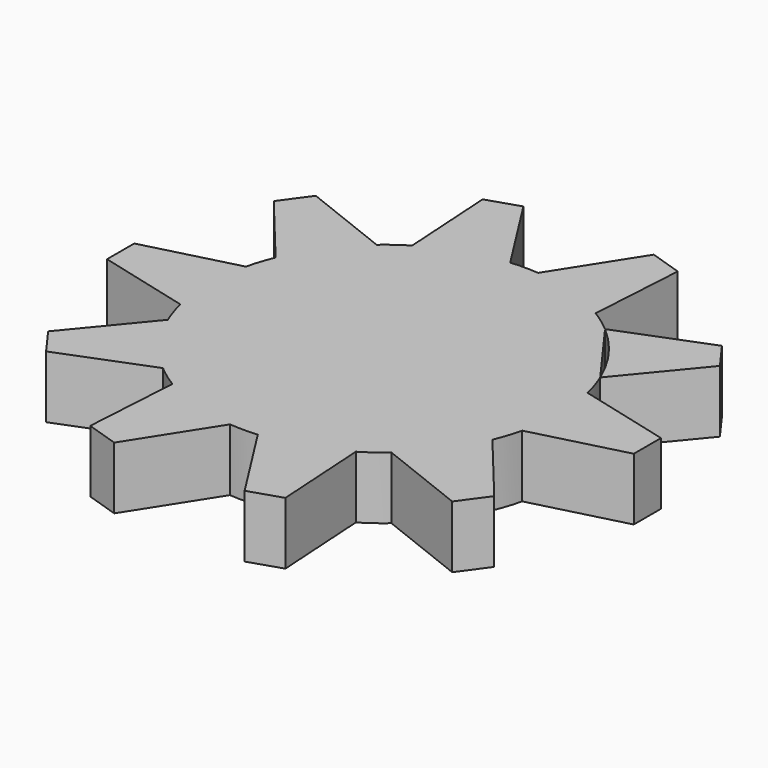
from build123d import *

# Parameters (mm, degrees)
F1_DEPTH = 4


with BuildPart() as f1:
    # F0 (on Top) → F1 (new body)
    with BuildSketch(Plane.XY):
        with BuildLine():
            Line((14.321063915, -9.0548285355), (10.419284589, -4.3253749244))
            ThreePointArc((10.419284589, -4.3253749244), (9.126857717, -6.6310502785), (7.3334120145, -8.5727141448))
            Line((7.3334120145, -8.5727141448), (13.0371058099, -10.822045258))
            Line((13.0371058099, -10.822045258), (14.321063915, -9.0548285355))
        make_face()
        with BuildLine():
            ThreePointArc((10.9717698929, -2.625), (11.2037374598, -1.3215999828), (11.2814165592, 0))
            ThreePointArc((11.2814165592, 0), (11.2037374598, 1.3215999828), (10.9717698929, 2.625))
            ThreePointArc((10.9717698929, 2.625), (10.7292647317, 3.4861494374), (10.419284589, 4.3253749244))
            Line((10.419284589, 4.3253749244), (7.3334120145, 8.5727141448))
            ThreePointArc((7.3334120145, 8.5727141448), (6.6310502785, 9.126857717), (5.8869867105, 9.6236036417))
            ThreePointArc((5.8869867105, 9.6236036417), (3.4861494374, 10.7292647317), (0.89394, 11.2459428622))
            ThreePointArc((0.89394, 11.2459428622), (0, 11.2814165592), (-0.89394, 11.2459428622))
            ThreePointArc((-0.89394, 11.2459428622), (-3.4861494374, 10.7292647317), (-5.8869867105, 9.6236036417))
            ThreePointArc((-5.8869867105, 9.6236036417), (-6.6310502785, 9.126857717), (-7.3334120145, 8.5727141448))
            ThreePointArc((-7.3334120145, 8.5727141448), (-9.126857717, 6.6310502785), (-10.419284589, 4.3253749244))
            ThreePointArc((-10.419284589, 4.3253749244), (-10.7292647317, 3.4861494374), (-10.9717698929, 2.625))
            ThreePointArc((-10.9717698929, 2.625), (-11.2814165592, 0), (-10.9717698929, -2.625))
            ThreePointArc((-10.9717698929, -2.625), (-10.7292647317, -3.4861494374), (-10.419284589, -4.3253749244))
            ThreePointArc((-10.419284589, -4.3253749244), (-9.126857717, -6.6310502785), (-7.3334120145, -8.5727141448))
            ThreePointArc((-7.3334120145, -8.5727141448), (-6.6310502785, -9.126857717), (-5.8869867105, -9.6236036417))
            ThreePointArc((-5.8869867105, -9.6236036417), (-3.4861494374, -10.7292647317), (-0.89394, -11.2459428622))
            ThreePointArc((-0.89394, -11.2459428622), (0, -11.2814165592), (0.89394, -11.2459428622))
            ThreePointArc((0.89394, -11.2459428622), (3.4861494374, -10.7292647317), (5.8869867105, -9.6236036417))
            ThreePointArc((5.8869867105, -9.6236036417), (6.6310502785, -9.126857717), (7.3334120145, -8.5727141448))
            ThreePointArc((7.3334120145, -8.5727141448), (9.126857717, -6.6310502785), (10.419284589, -4.3253749244))
            ThreePointArc((10.419284589, -4.3253749244), (10.7292647317, -3.4861494374), (10.9717698929, -2.625))
        make_face()
        with BuildLine():
            ThreePointArc((10.9717698929, 2.625), (11.2037374598, 1.3215999828), (11.2814165592, 0))
            ThreePointArc((11.2814165592, 0), (11.2037374598, -1.3215999828), (10.9717698929, -2.625))
            Line((10.9717698929, -2.625), (16.9082787599, -1.0922))
            Line((16.9082787599, -1.0922), (16.9082787599, 1.0922))
            Line((16.9082787599, 1.0922), (10.9717698929, 2.625))
        make_face()
        with BuildLine():
            ThreePointArc((0.89394, 11.2459428622), (3.4861494374, 10.7292647317), (5.8869867105, 9.6236036417))
            Line((5.8869867105, 9.6236036417), (6.2636894095, 15.7432203327))
            Line((6.2636894095, 15.7432203327), (4.1862015554, 16.4182370552))
            Line((4.1862015554, 16.4182370552), (0.89394, 11.2459428622))
        make_face()
        with BuildLine():
            ThreePointArc((-5.8869867105, 9.6236036417), (-3.4861494374, 10.7292647317), (-0.89394, 11.2459428622))
            Line((-0.89394, 11.2459428622), (-4.1862015554, 16.4182370552))
            Line((-4.1862015554, 16.4182370552), (-6.2636894095, 15.7432203327))
            Line((-6.2636894095, 15.7432203327), (-5.8869867105, 9.6236036417))
        make_face()
        with BuildLine():
            Line((6.2636894095, -15.7432203327), (5.8869867105, -9.6236036417))
            ThreePointArc((5.8869867105, -9.6236036417), (3.4861494374, -10.7292647317), (0.89394, -11.2459428622))
            Line((0.89394, -11.2459428622), (4.1862015554, -16.4182370552))
            Line((4.1862015554, -16.4182370552), (6.2636894095, -15.7432203327))
        make_face()
        with BuildLine():
            Line((-4.1862015554, -16.4182370552), (-0.89394, -11.2459428622))
            ThreePointArc((-0.89394, -11.2459428622), (-3.4861494374, -10.7292647317), (-5.8869867105, -9.6236036417))
            Line((-5.8869867105, -9.6236036417), (-6.2636894095, -15.7432203327))
            Line((-6.2636894095, -15.7432203327), (-4.1862015554, -16.4182370552))
        make_face()
        with BuildLine():
            Line((-13.0371058099, -10.822045258), (-7.3334120145, -8.5727141448))
            ThreePointArc((-7.3334120145, -8.5727141448), (-9.126857717, -6.6310502785), (-10.419284589, -4.3253749244))
            Line((-10.419284589, -4.3253749244), (-14.321063915, -9.0548285355))
            Line((-14.321063915, -9.0548285355), (-13.0371058099, -10.822045258))
        make_face()
        with BuildLine():
            ThreePointArc((-10.9717698929, -2.625), (-11.2814165592, 0), (-10.9717698929, 2.625))
            Line((-10.9717698929, 2.625), (-16.9082787599, 1.0922))
            Line((-16.9082787599, 1.0922), (-16.9082787599, -1.0922))
            Line((-16.9082787599, -1.0922), (-10.9717698929, -2.625))
        make_face()
        with BuildLine():
            ThreePointArc((-10.419284589, 4.3253749244), (-9.126857717, 6.6310502785), (-7.3334120145, 8.5727141448))
            Line((-7.3334120145, 8.5727141448), (-13.0371058099, 10.822045258))
            Line((-13.0371058099, 10.822045258), (-14.321063915, 9.0548285355))
            Line((-14.321063915, 9.0548285355), (-10.419284589, 4.3253749244))
        make_face()
    extrude(amount=F1_DEPTH)


with BuildPart() as f1b:
    # F0 (on Top) → F1, piece 2 (new body)
    with BuildSketch(Plane.XY):
        with BuildLine():
            ThreePointArc((7.3334120145, 8.5727141448), (9.126857717, 6.6310502785), (10.419284589, 4.3253749244))
            Line((10.419284589, 4.3253749244), (14.321063915, 9.0548285355))
            Line((14.321063915, 9.0548285355), (13.0371058099, 10.822045258))
            Line((13.0371058099, 10.822045258), (7.3334120145, 8.5727141448))
        make_face()
    extrude(amount=F1_DEPTH)


solid = Compound([f1.part, f1b.part])
